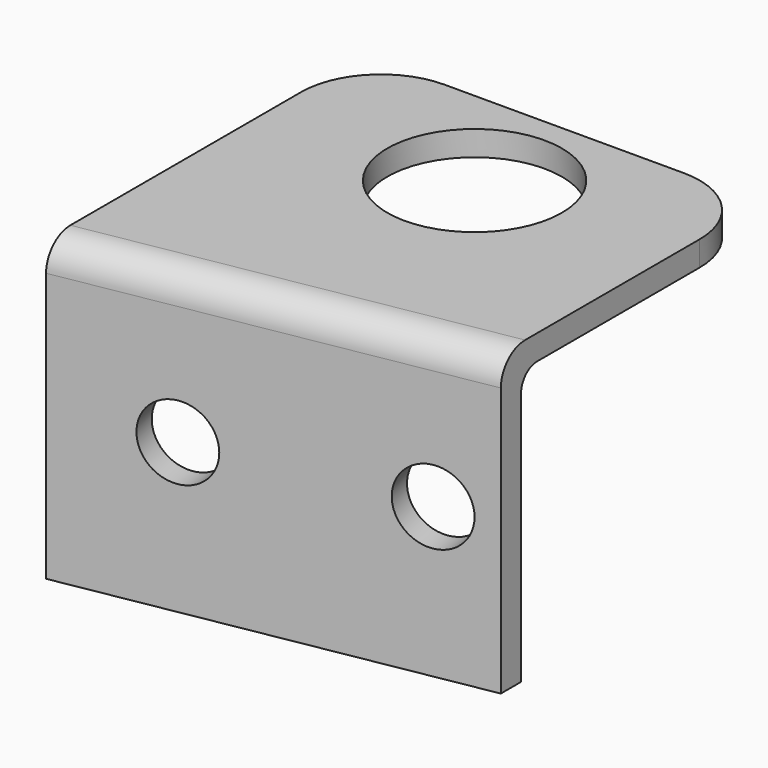
from build123d import *

# Parameters (mm, degrees)
F0_W      = 25.4
F0_H      = 19.05
F1_DEPTH  = 12.7
F3_DEPTH  = 19.051
F4_DEPTH  = 17.4625
F5_R      = 1.27
F6_R      = 1.905
F7_R      = 2.3495
F8_DEPTH  = 25.0151169265
F10_R     = 5.08
F9_R      = 5.5626
F11_DEPTH = 19.051


with BuildPart() as f1:
    # F0 (on Front) → F1 (new body, symmetric)
    with BuildSketch(Plane.XZ):
        Rectangle(F0_W, F0_H)
    extrude(amount=F1_DEPTH, both=True)

    # F2 (on face) → F3 (cut, through all)
    with BuildSketch(Plane(origin=(0, 0, -9.525), x_dir=(1, 0, 0), z_dir=(0, 0, -1))):
        Polygon((12.7, 12.7), (-12.7, 12.7), (12.7, 8.22129469), align=None)
    extrude(amount=-F3_DEPTH, mode=Mode.SUBTRACT)

    # F2 (on face) → F4 (cut)
    with BuildSketch(Plane(origin=(0, 0, -9.525), x_dir=(1, 0, 0), z_dir=(0, 0, -1))):
        Polygon((12.7, 6.6093049436), (-12.7, 11.0880102536), (-12.7, -12.7), (12.7, -12.7), align=None)
    extrude(amount=-F4_DEPTH, mode=Mode.SUBTRACT)

    # F5
    f5_edges = [f1.edges().sort_by_distance(p)[0] for p in [
        (0, -8.848658, 7.9375),
    ]]
    fillet(f5_edges, radius=F5_R)

    # F6
    f6_edges = [f1.edges().sort_by_distance(p)[0] for p in [
        (0, -10.460647, 9.525),
    ]]
    fillet(f6_edges, radius=F6_R)

    # F7 (on face) → F8 (cut, through all)
    with BuildSketch(Plane(origin=(1.7888760521, -10.1452202319, 0), x_dir=(0.984807753, 0.1736481777, 0), z_dir=(0.1736481777, -0.984807753, 0))):
        with Locations((7.239, 0)):
            Circle(F7_R)
        with Locations((-7.239, 0)):
            Circle(F7_R)
    extrude(amount=-F8_DEPTH, mode=Mode.SUBTRACT)

    # F10
    f10_edges = [f1.edges().sort_by_distance(p)[0] for p in [
        (12.7, 12.7, 8.73125),
        (-12.7, 12.7, 8.73125),
    ]]
    fillet(f10_edges, radius=F10_R)

    # F9 (on face) → F11 (cut, through all)
    with BuildSketch(Plane.XY.offset(9.525)):
        with Locations((0, 5.5626)):
            Circle(F9_R)
    extrude(amount=-F11_DEPTH, mode=Mode.SUBTRACT)


solid = f1.part
